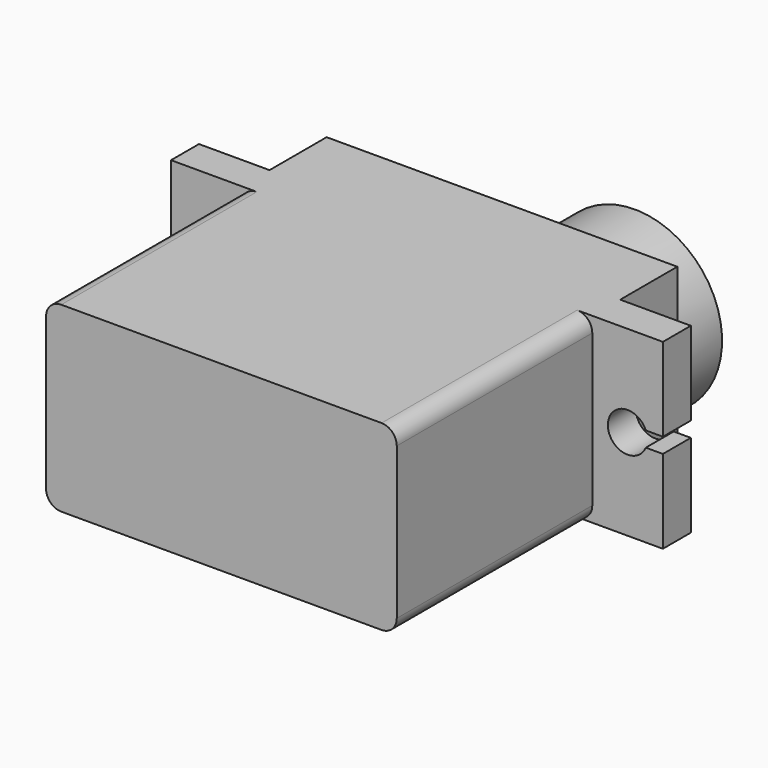
from build123d import *

# Parameters (mm, degrees)
PAD_DEPTH       = 12
FILLET_R        = 1
FILLET001_R     = 1
FILLET002_R     = 1
FILLET003_R     = 1
POCKET_DEPTH    = 5
PAD001_DEPTH    = 4
SKETCH004_R     = 2.25
PAD002_DEPTH    = 3
POCKET001_DEPTH = 5


with BuildPart() as part:
    # Sketch → Pad (new body)
    with BuildSketch(Plane.XY):
        Polygon((-15.25744, 12.972063), (7.84256, 12.972063), (7.84256, 8.272063), (12.49256, 8.272063), (12.49256, 5.972063), (7.84256, 5.972063), (7.84256, -10.127937), (-15.25744, -10.127937), (-15.25744, 5.972063), (-19.90744, 5.972063), (-19.90744, 8.272063), (-15.25744, 8.272063), align=None)
    extrude(amount=PAD_DEPTH)

    # Fillet
    fillet_edges = [part.edges().sort_by_distance(p)[0] for p in [
        (-15.25744, -2.077937, 12),
    ]]
    fillet(fillet_edges, radius=FILLET_R)

    # Fillet001
    fillet001_edges = [part.edges().sort_by_distance(p)[0] for p in [
        (-15.25744, -2.077937, 0),
    ]]
    fillet(fillet001_edges, radius=FILLET001_R)

    # Fillet002
    fillet002_edges = [part.edges().sort_by_distance(p)[0] for p in [
        (7.84256, -2.077937, 0),
    ]]
    fillet(fillet002_edges, radius=FILLET002_R)

    # Fillet003
    fillet003_edges = [part.edges().sort_by_distance(p)[0] for p in [
        (7.84256, -2.077937, 12),
    ]]
    fillet(fillet003_edges, radius=FILLET003_R)

    # Sketch001 → Pocket (cut)
    with BuildSketch(Plane(origin=(0, 8.272063, 0), x_dir=(-1, 0, 0), z_dir=(0, 1, 0))):
        with BuildLine():
            ThreePointArc((-11.368116, 5.5), (-8.868116, 6), (-11.368116, 6.5))
            Line((-12.49256, 6.5), (-11.368116, 6.5))
            Line((-12.49256, 5.5), (-12.49256, 6.5))
            Line((-11.368116, 5.5), (-12.49256, 5.5))
        make_face()
    extrude(amount=-POCKET_DEPTH, mode=Mode.SUBTRACT)

    # Sketch003 → Pad001 (new body)
    with BuildSketch(Plane(origin=(0, 12.972063, 0), x_dir=(-1, 0, 0), z_dir=(0, 1, 0))):
        with BuildLine():
            ThreePointArc((3.52244, 8.068641), (-7.59256, 6), (3.52244, 3.931359))
            ThreePointArc((3.52244, 3.931359), (6.65744, 6), (3.52244, 8.068641))
        make_face()
    extrude(amount=PAD001_DEPTH)

    # Sketch004 → Pad002 (new body)
    with BuildSketch(Plane(origin=(0, 16.972063, 0), x_dir=(-1, 0, 0), z_dir=(0, 1, 0))):
        with Locations((-1.84256, 6)):
            Circle(SKETCH004_R)
    extrude(amount=PAD002_DEPTH)

    # Sketch005 → Pocket001 (cut)
    with BuildSketch(Plane(origin=(0, 8.272063, 0), x_dir=(-1, 0, 0), z_dir=(0, 1, 0))):
        with BuildLine():
            ThreePointArc((18.643443, 6.5), (16.143443, 6), (18.643443, 5.5))
            Line((19.90744, 5.5), (18.643443, 5.5))
            Line((19.90744, 6.5), (19.90744, 5.5))
            Line((18.643443, 6.5), (19.90744, 6.5))
        make_face()
    extrude(amount=-POCKET001_DEPTH, mode=Mode.SUBTRACT)


solid = part.part
